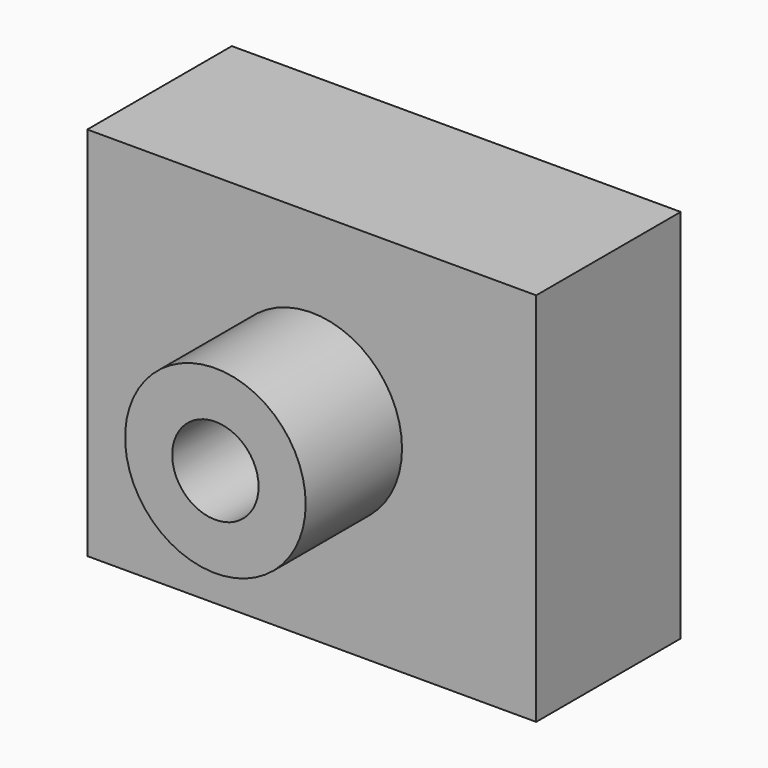
from build123d import *

# Parameters (mm, degrees)
F0_W     = 94.6727246046
F0_H     = 79.2018212378
F1_DEPTH = 12.7
F2_DEPTH = 25.4
F3_R     = 19.041251915
F3_R_2   = 9.1084784232
F4_DEPTH = 25.4
F5_DEPTH = 38.101


with BuildPart() as f1:
    # F0 (on Front) → F1 (new body)
    with BuildSketch(Plane.XZ):
        with Locations((0, -12.2381839901)):
            Rectangle(F0_W, F0_H)
    extrude(amount=F1_DEPTH)

    # F2 (add): a face of the model
    f2_faces = [f1.faces().sort_by_distance(p)[0] for p in [
        (0, -12.7, -12.2381839901),
    ]]
    extrude(f2_faces, amount=F2_DEPTH)

    # F3 (on face) → F4 (join)
    with BuildSketch(Plane.XZ.offset(38.1)):
        with Locations((0, -10.2754551917)):
            Circle(F3_R)
        with Locations((0, -10.2754551917)):
            Circle(F3_R_2, mode=Mode.SUBTRACT)
    extrude(amount=F4_DEPTH)

    # F5 (cut, through all): a face of the model
    f5_faces = [f1.faces().sort_by_distance(p)[0] for p in [
        (0, -38.1, -10.2754551917),
    ]]
    extrude(f5_faces, amount=-F5_DEPTH, mode=Mode.SUBTRACT)


solid = f1.part
